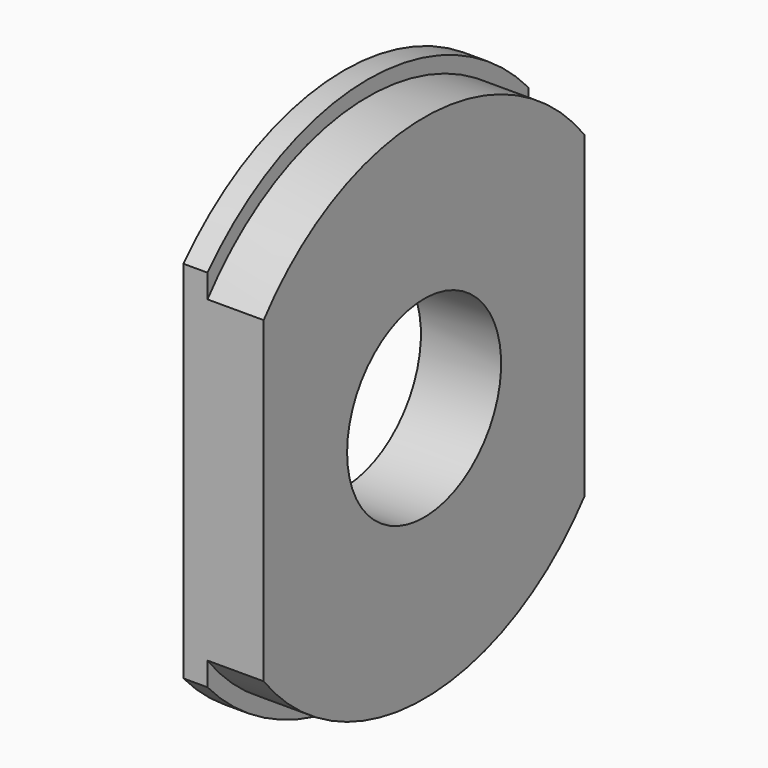
from build123d import *

# Parameters (mm, degrees)
F3_D     = 12
F5_DEPTH = 25


with BuildPart() as f1:
    # F0 (on Front) → F1 (revolve)
    with BuildSketch(Plane.XZ):
        Polygon((0, 16.9), (0, 0), (5, 0), (5, 15.95), (1.5, 15.95), (1.5, 16.9), align=None)
    revolve(axis=Axis((2.5, 0, 0), (1, 0, 0)))

    # F3 (through all)
    with Locations(Plane.YZ.offset(5)):
        with Locations((0, 0)):
            Hole(F3_D / 2)

    # F4 (on face) → F5 (cut)
    with BuildSketch(Plane.YZ.offset(5)):
        with BuildLine():
            Line((-12.5, -9.9071943556), (-12.5, 9.9071943556))
            ThreePointArc((-12.5, 9.9071943556), (-15.95, 0), (-12.5, -9.9071943556))
        make_face()
        with BuildLine():
            Line((-12.5, 9.9071943556), (-12.5, 11.3736537665))
            ThreePointArc((-12.5, 11.3736537665), (-16.9, 0), (-12.5, -11.3736537665))
            Line((-12.5, -11.3736537665), (-12.5, -9.9071943556))
            ThreePointArc((-12.5, -9.9071943556), (-15.95, 0), (-12.5, 9.9071943556))
        make_face()
        with BuildLine():
            ThreePointArc((15.95, 0), (15.0628267599, 5.2453550881), (12.5, 9.9071943556))
            Line((12.5, 9.9071943556), (12.5, -9.9071943556))
            ThreePointArc((12.5, -9.9071943556), (15.0628267599, -5.2453550881), (15.95, 0))
        make_face()
        with BuildLine():
            ThreePointArc((12.5, -11.3736537665), (15.7616623489, -6.0975404878), (16.9, 0))
            ThreePointArc((16.9, 0), (15.7616623489, 6.0975404878), (12.5, 11.3736537665))
            Line((12.5, 11.3736537665), (12.5, 9.9071943556))
            ThreePointArc((12.5, 9.9071943556), (15.0628267599, 5.2453550881), (15.95, 0))
            ThreePointArc((15.95, 0), (15.0628267599, -5.2453550881), (12.5, -9.9071943556))
            Line((12.5, -9.9071943556), (12.5, -11.3736537665))
        make_face()
    extrude(amount=-F5_DEPTH, mode=Mode.SUBTRACT)


solid = f1.part
